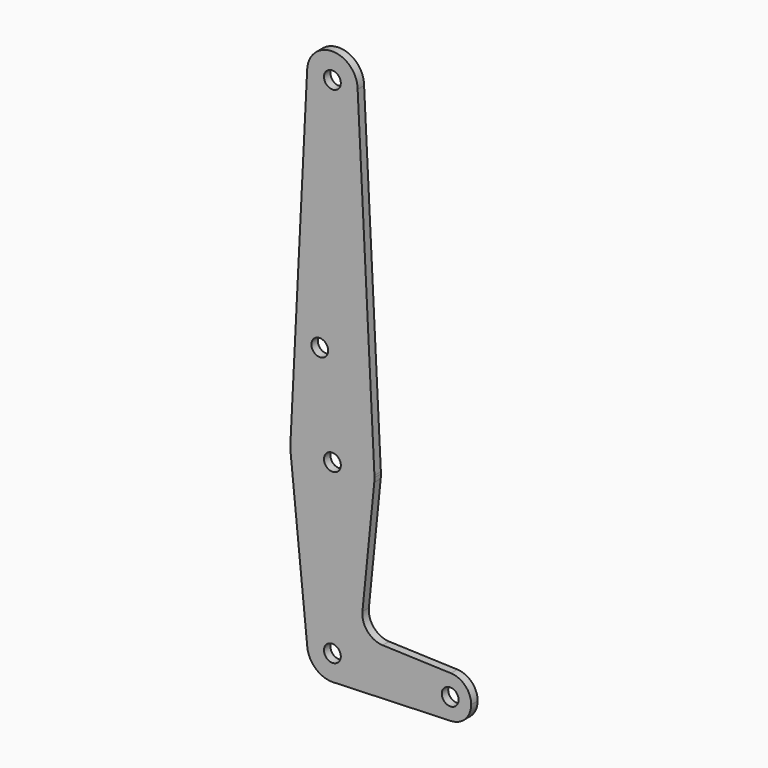
from build123d import *

# Parameters (mm, degrees)
F0_R     = 3.175
F1_DEPTH = 3.048


with BuildPart() as f1:
    # F0 (on Front) → F1 (new body)
    with BuildSketch(Plane.XZ):
        with BuildLine():
            Line((15.855069, 64.295245), (9.525, 190.5))
            ThreePointArc((9.525, 190.5), (-0.238199, 180.977979), (-9.513086, 190.97625))
            Line((-9.513086, 190.97625), (-15.855144, 64.29375))
            ThreePointArc((-15.855144, 64.29375), (-0.000748, 79.375), (15.855069, 64.295245))
        make_face()
        with Locations((-4.7625, 100.0252)):
            Circle(F0_R, mode=Mode.SUBTRACT)
        with BuildLine():
            ThreePointArc((-9.513086, 190.97625), (-0.238199, 180.977979), (9.525, 190.5))
            ThreePointArc((9.525, 190.5), (0.238199, 200.022021), (-9.513086, 190.97625))
        make_face()
        with Locations((0, 190.5)):
            Circle(F0_R, mode=Mode.SUBTRACT)
        with BuildLine():
            ThreePointArc((15.875, 63.5), (15.870016, 63.897747), (15.855069, 64.295245))
            ThreePointArc((15.855069, 64.295245), (-0.000748, 79.375), (-15.855144, 64.29375))
            ThreePointArc((-15.855144, 64.29375), (-15.87001, 63.102003), (-15.795426, 61.9125))
            ThreePointArc((-15.795426, 61.9125), (0, 47.625), (15.795426, 61.9125))
            ThreePointArc((15.795426, 61.9125), (15.855094, 62.705253), (15.875, 63.5))
        make_face()
        with Locations((0, 63.5)):
            Circle(F0_R, mode=Mode.SUBTRACT)
        with BuildLine():
            ThreePointArc((15.795426, 61.9125), (0, 47.625), (-15.795426, 61.9125))
            Line((-15.795426, 61.9125), (-9.477255, -0.9525))
            ThreePointArc((-9.477255, -0.9525), (-0.476848, 9.513056), (9.525, 0))
            ThreePointArc((9.525, 0), (6.970557, -6.491299), (0.677344, -9.500886))
            Line((0.677344, -9.500886), (44.732405, -7.932475))
            ThreePointArc((44.732405, -7.932475), (36.5125, 0), (44.732405, 7.932475))
            Line((44.732405, 7.932475), (18.968328, 8.849706))
            ThreePointArc((18.968328, 8.849706), (13.261204, 11.567463), (11.340836, 17.589892))
            Line((11.340836, 17.589892), (15.795426, 61.9125))
        make_face()
        with BuildLine():
            ThreePointArc((9.525, 0), (-0.476848, 9.513056), (-9.477255, -0.9525))
            ThreePointArc((-9.477255, -0.9525), (-6.389564, -7.063929), (0, -9.525))
            Line((0, -9.525), (0.677344, -9.500886))
            ThreePointArc((0.677344, -9.500886), (6.970557, -6.491299), (9.525, 0))
        make_face()
        Circle(F0_R, mode=Mode.SUBTRACT)
        with BuildLine():
            ThreePointArc((52.3875, 0), (50.161633, 5.51191), (44.732405, 7.932475))
            ThreePointArc((44.732405, 7.932475), (36.5125, 0), (44.732405, -7.932475))
            ThreePointArc((44.732405, -7.932475), (50.161633, -5.51191), (52.3875, 0))
        make_face()
        with Locations((44.45, 0)):
            Circle(F0_R, mode=Mode.SUBTRACT)
    extrude(amount=F1_DEPTH)


solid = f1.part
